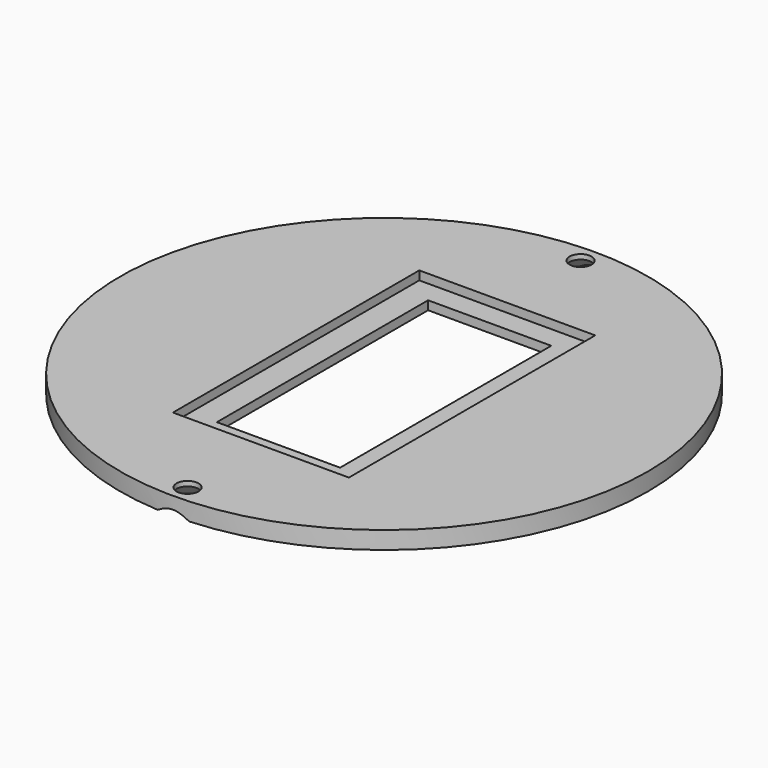
from build123d import *

# Parameters (mm, degrees)
F0_R           = 38.1
F0_W           = 17.78
F0_H           = 38.1
F2_DEPTH       = 2.54
F3_D           = 3.175
F3_CSINK_D     = 6.858
F3_CSINK_ANGLE = 90
F4_W           = 25.4
F4_H           = 44.45
F4_W_2         = 17.78
F4_H_2         = 38.1
F5_DEPTH       = 1.27


with BuildPart() as f2:
    # F0 (on Top) → F2 (new body)
    with BuildSketch(Plane.XY):
        Circle(F0_R)
        Rectangle(F0_W, F0_H, mode=Mode.SUBTRACT)
    extrude(amount=F2_DEPTH)

    # F3 (through all)
    with Locations(Plane(origin=(0, 0, 0), x_dir=(1, 0, 0), z_dir=(0, 0, -1))):
        with Locations((0, 35.4584), (0, -35.4463979602)):
            CounterSinkHole(F3_D / 2, F3_CSINK_D / 2, counter_sink_angle=F3_CSINK_ANGLE)

    # F4 (on face) → F5 (cut)
    with BuildSketch(Plane.XY.offset(2.54)):
        Rectangle(F4_W, F4_H)
        Rectangle(F4_W_2, F4_H_2, mode=Mode.SUBTRACT)
    extrude(amount=-F5_DEPTH, mode=Mode.SUBTRACT)


solid = f2.part
